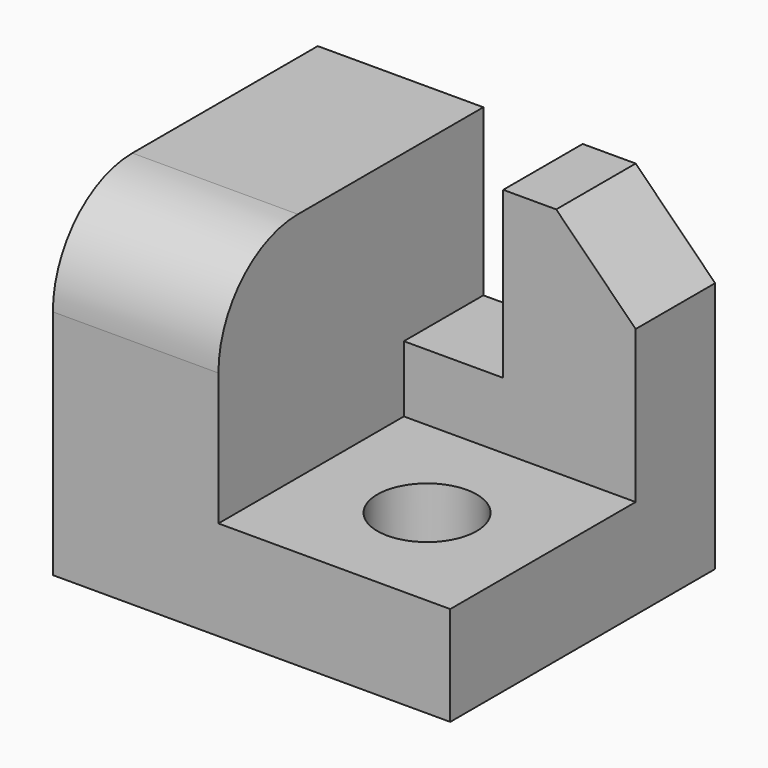
from build123d import *

# Parameters (mm, degrees)
F0_W     = 152.4
F0_H     = 127
F1_DEPTH = 127
F2_W     = 88.9
F2_H     = 88.9
F3_DEPTH = 88.9
F4_R     = 19.05
F5_DEPTH = 50.8
F6_W     = 38.1
F6_H     = 38.1
F7_DEPTH = 63.5
F8_SIZE  = 30.48
F9_R     = 38.1


with BuildPart() as f1:
    # F0 (on Front) → F1 (new body)
    with BuildSketch(Plane.XZ):
        Rectangle(F0_W, F0_H)
    extrude(amount=F1_DEPTH)

    # F2 (on face) → F3 (cut)
    with BuildSketch(Plane.XY.offset(63.5)):
        with Locations((31.75, -82.55)):
            Rectangle(F2_W, F2_H)
    extrude(amount=-F3_DEPTH, mode=Mode.SUBTRACT)

    # F4 (on face) → F5 (cut)
    with BuildSketch(Plane.XY.offset(-25.4)):
        with Locations((31.75, -82.55)):
            Circle(F4_R)
    extrude(amount=-F5_DEPTH, mode=Mode.SUBTRACT)

    # F6 (on face) → F7 (cut)
    with BuildSketch(Plane.XY.offset(63.5)):
        with Locations((6.35, -19.05)):
            Rectangle(F6_W, F6_H)
    extrude(amount=-F7_DEPTH, mode=Mode.SUBTRACT)

    # F8
    f8_edges = [f1.edges().sort_by_distance(p)[0] for p in [
        (76.2, -19.05, 63.5),
    ]]
    chamfer(f8_edges, length=F8_SIZE)

    # F9
    f9_edges = [f1.edges().sort_by_distance(p)[0] for p in [
        (-44.45, -127, 63.5),
    ]]
    fillet(f9_edges, radius=F9_R)


solid = f1.part
